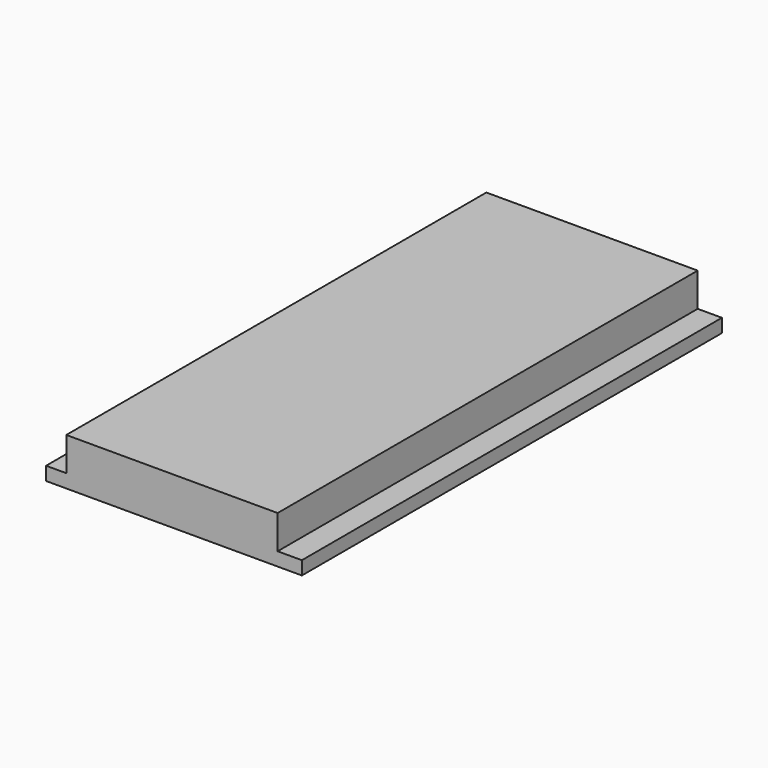
from build123d import *

# Parameters (mm, degrees)
BOX004_W     = 15.7
BOX004_H     = 39
BOX004_DEPTH = 3.5
BOX003_W     = 19
BOX003_H     = 39
BOX003_DEPTH = 1


with BuildPart() as cubo004:
    # Box004 → Box004 (new body)
    with BuildSketch(Plane(origin=(1.5, -14, 0), x_dir=(1, 0, 0), z_dir=(0, 0, 1))):
        with Locations((7.85, 19.5)):
            Rectangle(BOX004_W, BOX004_H)
    extrude(amount=BOX004_DEPTH)


with BuildPart() as fusion001:
    # Box003 → Box003 (new body)
    with BuildSketch(Plane(origin=(0, -14, 0), x_dir=(1, 0, 0), z_dir=(0, 0, 1))):
        with Locations((9.5, 19.5)):
            Rectangle(BOX003_W, BOX003_H)
    extrude(amount=BOX003_DEPTH)

    # Fusion001: union Cubo004
    add(cubo004.part)


solid = fusion001.part
